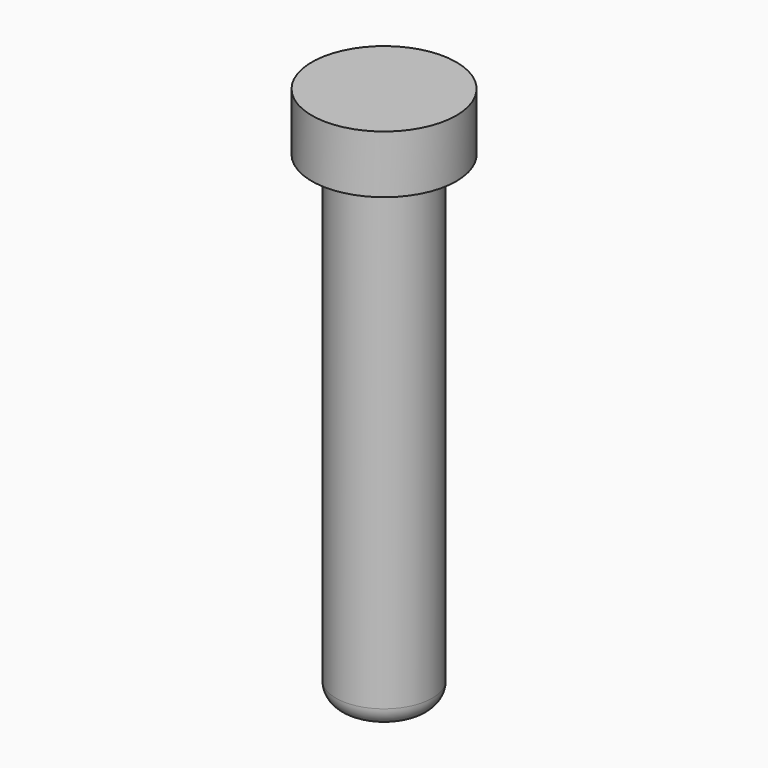
from build123d import *

# Parameters (mm, degrees)
F0_R     = 3.175
F1_DEPTH = 35.56
F2_R     = 4.7625
F3_DEPTH = 3.81
F4_R     = 1.25


with BuildPart() as f1:
    # F0 (on Top) → F1 (new body)
    with BuildSketch(Plane.XY):
        Circle(F0_R)
    extrude(amount=-F1_DEPTH)

    # F2 (on Top) → F3 (join)
    with BuildSketch(Plane.XY):
        Circle(F2_R)
    extrude(amount=-F3_DEPTH)

    # F4
    f4_edges = [f1.edges().sort_by_distance(p)[0] for p in [
        (-3.175, 0, -35.56),
    ]]
    fillet(f4_edges, radius=F4_R)


solid = f1.part
